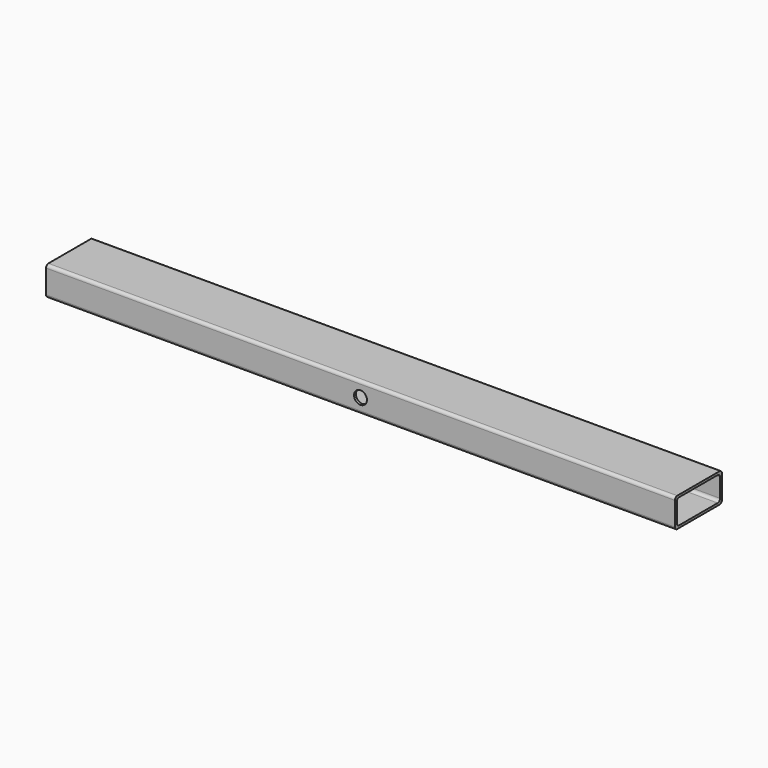
from build123d import *

# Parameters (mm, degrees)
F0_W     = 1070
F0_H     = 50
F1_DEPTH = 100
F2_T     = -4
F3_R     = 5
F5_D     = 22
F5_DEPTH = 4
F5_TIP   = 6.6094668093


with BuildPart() as f1:
    # F0 (on Front) → F1 (new body)
    with BuildSketch(Plane.XZ):
        Rectangle(F0_W, F0_H)
    extrude(amount=F1_DEPTH)

    # F2
    f2_openings = [f1.faces().sort_by_distance(p)[0] for p in [
        (-535, -50, 0),
        (535, -50, 0),
    ]]
    offset(amount=F2_T, openings=f2_openings)

    # F3
    f3_edges = [f1.edges().sort_by_distance(p)[0] for p in [
        (0, -96, -21),
        (0, -96, 21),
        (0, -4, -21),
        (0, -4, 21),
        (0, 0, 25),
        (0, 0, -25),
        (0, -100, 25),
        (0, -100, -25),
    ]]
    fillet(f3_edges, radius=F3_R)

    # F5
    with Locations(Plane.XZ.offset(100)):
        with Locations((0, 0)):
            Hole(F5_D / 2, depth=F5_DEPTH)
            with Locations((0, 0, -(F5_DEPTH + F5_TIP / 2))):  # 118° drill point
                Cone(0, F5_D / 2, F5_TIP, mode=Mode.SUBTRACT)


solid = f1.part
